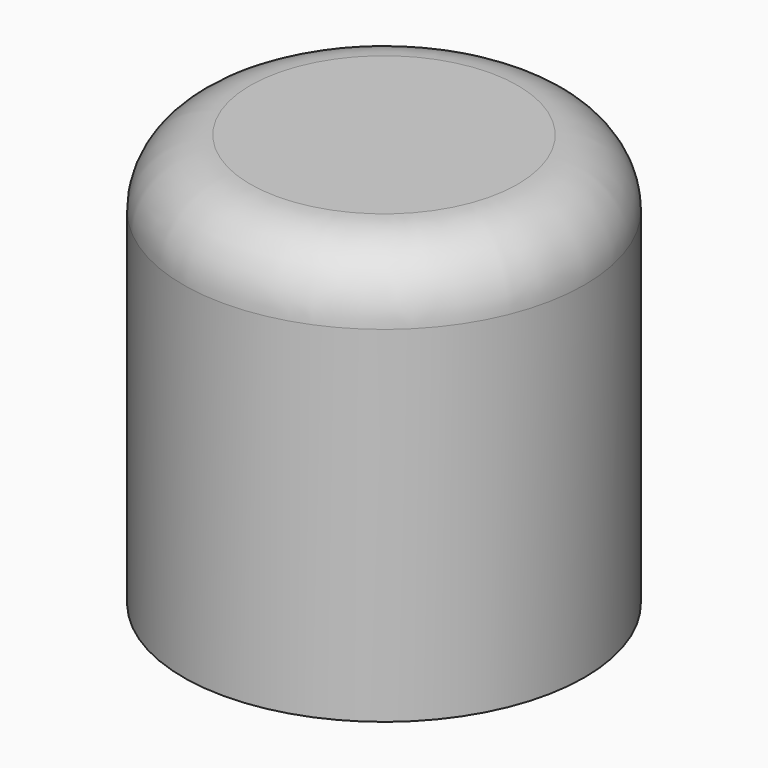
from build123d import *

# Parameters (mm, degrees)
F0_R     = 9
F0_R_2   = 7.5
F1_DEPTH = 14.5
F2_DEPTH = 12
F3_DEPTH = 4
F4_R     = 3


with BuildPart() as f1:
    # F0 (on Top) → F1 (new body)
    with BuildSketch(Plane.XY):
        Circle(F0_R)
        Circle(F0_R_2, mode=Mode.SUBTRACT)
        Circle(F0_R_2)
        with BuildLine():
            ThreePointArc((1.5, 2.5980762114), (2.5980762114, 1.5), (3, 0))
            ThreePointArc((3, 0), (2.5980762114, -1.5), (1.5, -2.5980762114))
            ThreePointArc((1.5, -2.5980762114), (-3, 0), (1.5, 2.5980762114))
        make_face(mode=Mode.SUBTRACT)
        with BuildLine():
            Line((1.5, -2.5980762114), (1.5, 2.5980762114))
            ThreePointArc((1.5, 2.5980762114), (-3, 0), (1.5, -2.5980762114))
        make_face()
        with BuildLine():
            ThreePointArc((1.5, -2.5980762114), (2.5980762114, -1.5), (3, 0))
            ThreePointArc((3, 0), (2.5980762114, 1.5), (1.5, 2.5980762114))
            Line((1.5, 2.5980762114), (1.5, -2.5980762114))
        make_face()
    extrude(amount=F1_DEPTH)

    # F0 (on Top) → F2 (cut)
    with BuildSketch(Plane.XY):
        with BuildLine():
            Line((1.5, -2.5980762114), (1.5, 2.5980762114))
            ThreePointArc((1.5, 2.5980762114), (-3, 0), (1.5, -2.5980762114))
        make_face()
        with BuildLine():
            ThreePointArc((1.5, -2.5980762114), (2.5980762114, -1.5), (3, 0))
            ThreePointArc((3, 0), (2.5980762114, 1.5), (1.5, 2.5980762114))
            Line((1.5, 2.5980762114), (1.5, -2.5980762114))
        make_face()
    extrude(amount=F2_DEPTH, mode=Mode.SUBTRACT)

    # F0 (on Top) → F3 (join)
    with BuildSketch(Plane.XY):
        Circle(F0_R)
        Circle(F0_R_2, mode=Mode.SUBTRACT)
    extrude(amount=-F3_DEPTH)

    # F4
    f4_edges = [f1.edges().sort_by_distance(p)[0] for p in [
        (-9, 0, 14.5),
    ]]
    fillet(f4_edges, radius=F4_R)


solid = f1.part
